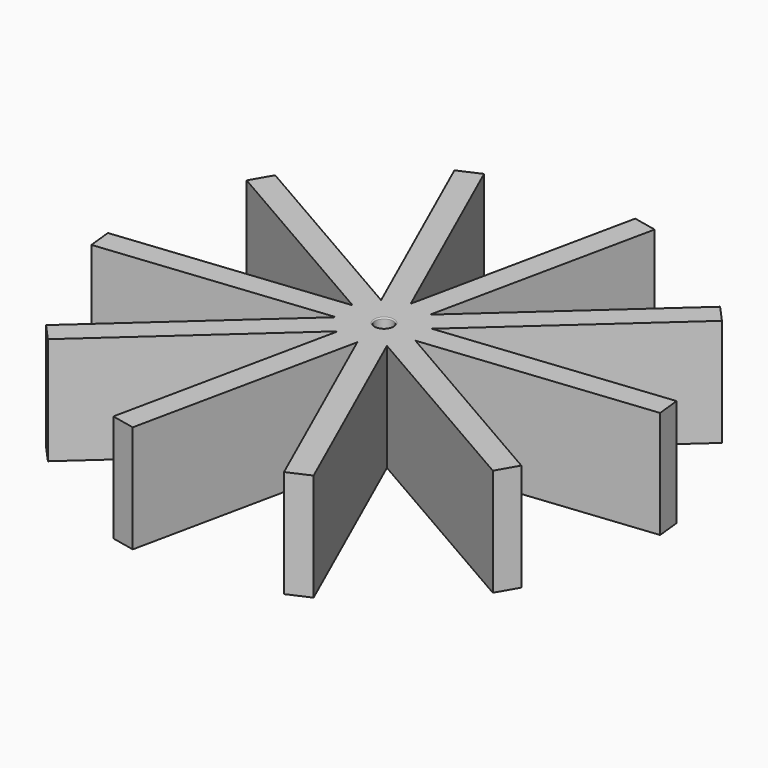
from build123d import *

# Parameters (mm, degrees)
F0_R      = 0.9525
F1_DEPTH  = 3.81
F2_R      = 0.127
F3_DEPTH  = 2.54
F4_DEPTH  = 24.13
F5_DEPTH  = 24.13
F6_DEPTH  = 24.13
F7_DEPTH  = 24.13
F8_DEPTH  = 24.13
F9_DEPTH  = 24.13
F10_DEPTH = 24.13
F11_DEPTH = 24.13
F12_DEPTH = 24.13
F13_DEPTH = 24.13
F14_DEPTH = 5.08
F15_R     = 1.778
F16_DEPTH = 5.08


with BuildPart() as f1:
    # F0 (on Top) → F1 (new body)
    with BuildSketch(Plane.XY):
        Polygon((0.4323873163, -4.0869975888), (2.7520855959, -3.0522996175), (4.0205807178, -0.8517269361), (3.75335066, 1.6741764857), (2.0524682218, 3.5606013931), (-0.4323873163, 4.0869975888), (-2.7520855959, 3.0522996175), (-4.0205807178, 0.8517269361), (-3.75335066, -1.6741764857), (-2.0524682218, -3.5606013931), align=None)
        Circle(F0_R, mode=Mode.SUBTRACT)
    extrude(amount=F1_DEPTH)

    # F2
    f2_edges = [f1.edges().sort_by_distance(p)[0] for p in [
        (-0.9525, 0, 3.81),
    ]]
    fillet(f2_edges, radius=F2_R)

    # F0 (on Top) → F3 (join)
    with BuildSketch(Plane.XY):
        Polygon((0.4323873163, -4.0869975888), (2.7520855959, -3.0522996175), (4.0205807178, -0.8517269361), (3.75335066, 1.6741764857), (2.0524682218, 3.5606013931), (-0.4323873163, 4.0869975888), (-2.7520855959, 3.0522996175), (-4.0205807178, 0.8517269361), (-3.75335066, -1.6741764857), (-2.0524682218, -3.5606013931), align=None)
        Circle(F0_R, mode=Mode.SUBTRACT)
        Circle(F0_R)
    extrude(amount=-F3_DEPTH)

    # F4 (add): a face of the model
    f4_faces = [f1.faces().sort_by_distance(p)[0] for p in [
        (2.9029094409, 2.6173889394, 0.635),
    ]]
    extrude(f4_faces, amount=F4_DEPTH)

    # F5 (add): a face of the model
    f5_faces = [f1.faces().sort_by_distance(p)[0] for p in [
        (3.8869656889, 0.4112247748, 0.635),
    ]]
    extrude(f5_faces, amount=F5_DEPTH)

    # F6 (add): a face of the model
    f6_faces = [f1.faces().sort_by_distance(p)[0] for p in [
        (3.3863331568, -1.9520132768, 0.635),
    ]]
    extrude(f6_faces, amount=F6_DEPTH)

    # F7 (add): a face of the model
    f7_faces = [f1.faces().sort_by_distance(p)[0] for p in [
        (1.5922364561, -3.5696486031, 0.635),
    ]]
    extrude(f7_faces, amount=F7_DEPTH)

    # F8 (add): a face of the model
    f8_faces = [f1.faces().sort_by_distance(p)[0] for p in [
        (-0.8100404527, -3.8237994909, 0.635),
    ]]
    extrude(f8_faces, amount=F8_DEPTH)

    # F9 (add): a face of the model
    f9_faces = [f1.faces().sort_by_distance(p)[0] for p in [
        (-2.9029094409, -2.6173889394, 0.635),
    ]]
    extrude(f9_faces, amount=F9_DEPTH)

    # F10 (add): a face of the model
    f10_faces = [f1.faces().sort_by_distance(p)[0] for p in [
        (-3.8869656889, -0.4112247748, 0.635),
    ]]
    extrude(f10_faces, amount=F10_DEPTH)

    # F11 (add): a face of the model
    f11_faces = [f1.faces().sort_by_distance(p)[0] for p in [
        (-3.3863331568, 1.9520132768, 0.635),
    ]]
    extrude(f11_faces, amount=F11_DEPTH)

    # F12 (add): a face of the model
    f12_faces = [f1.faces().sort_by_distance(p)[0] for p in [
        (-1.5922364561, 3.5696486031, 0.635),
    ]]
    extrude(f12_faces, amount=F12_DEPTH)

    # F13 (add): a face of the model
    f13_faces = [f1.faces().sort_by_distance(p)[0] for p in [
        (0.8100404527, 3.8237994909, 0.635),
    ]]
    extrude(f13_faces, amount=F13_DEPTH)

    # F14 (add): a face of the model
    f14_faces = [f1.faces().sort_by_distance(p)[0] for p in [
        (0, 0, -2.54),
    ]]
    extrude(f14_faces, amount=F14_DEPTH)

    # F15 (on face) → F16 (cut)
    with BuildSketch(Plane(origin=(0, 0, -7.62), x_dir=(1, 0, 0), z_dir=(0, 0, -1))):
        Circle(F15_R)
    extrude(amount=-F16_DEPTH, mode=Mode.SUBTRACT)


solid = f1.part
